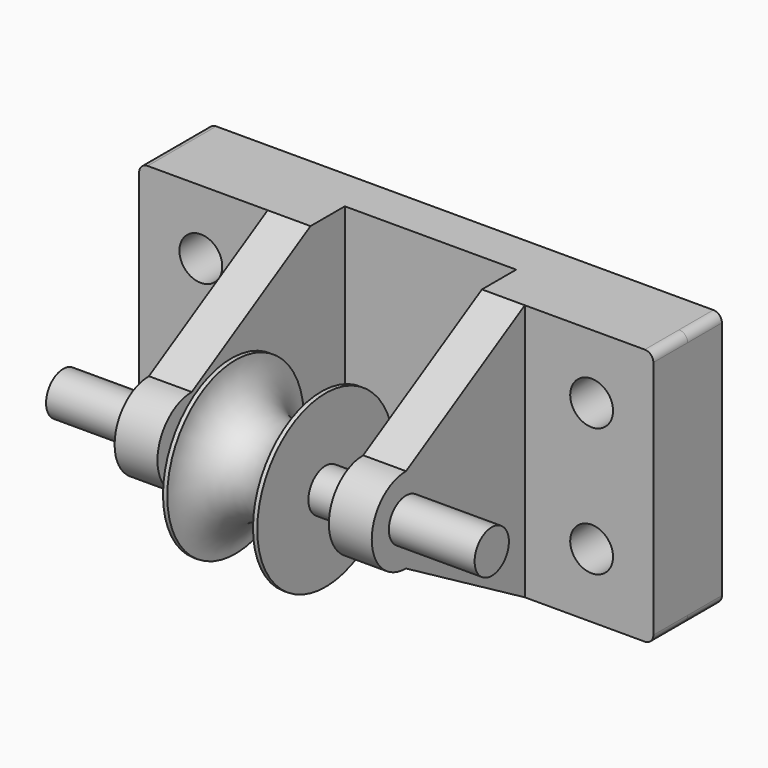
from build123d import *

# Parameters (mm, degrees)
F0_W          = 152.4
F0_H          = 76.2
F0_R          = 6.35
F1_DEPTH      = 12.7
F2_R          = 2.54
F3_R          = 6.35
F4_DEPTH      = 12.7
F5_W          = 12.7
F5_H          = 76.2
F6_DEPTH      = 12.7
F8_R          = 6.35
F9_DEPTH      = 25.4
F9_DEPTH_BACK = 101.6


with BuildPart() as f1:
    # F0 (on Front) → F1 (new body)
    with BuildSketch(Plane.XZ):
        Rectangle(F0_W, F0_H)
        with Locations((-57.903849, -19.05)):
            Circle(F0_R, mode=Mode.SUBTRACT)
        with Locations((57.903849, -19.05)):
            Circle(F0_R, mode=Mode.SUBTRACT)
        with Locations((-57.903849, 19.05)):
            Circle(F0_R, mode=Mode.SUBTRACT)
        with Locations((57.903849, 19.05)):
            Circle(F0_R, mode=Mode.SUBTRACT)
    extrude(amount=F1_DEPTH)

    # F2
    f2_edges = [f1.edges().sort_by_distance(p)[0] for p in [
        (-76.2, -6.35, 38.1),
        (76.2, -6.35, 38.1),
        (-76.2, -6.35, -38.1),
        (76.2, -6.35, -38.1),
    ]]
    fillet(f2_edges, radius=F2_R)



with BuildPart() as f4:
    # F3 (on face) → F4 (new body)
    with BuildSketch(Plane.XZ.offset(12.7)):
        with BuildLine():
            Line((-38.1, -38.1), (-38.1, 38.1))
            Line((-38.1, 38.1), (-73.66, 38.1))
            ThreePointArc((-73.66, 38.1), (-75.456051, 37.356051), (-76.2, 35.56))
            Line((-76.2, 35.56), (-76.2, -35.56))
            ThreePointArc((-76.2, -35.56), (-75.456051, -37.356051), (-73.66, -38.1))
            Line((-73.66, -38.1), (-38.1, -38.1))
        make_face()
        with Locations((-57.903849, -19.05)):
            Circle(F3_R, mode=Mode.SUBTRACT)
        with Locations((-57.903849, 19.05)):
            Circle(F3_R, mode=Mode.SUBTRACT)
    extrude(amount=F4_DEPTH)


with BuildPart() as f1_1:
    add(f1.part)

    add(f4.part)  # F6 merges F4
    # F5 (on face) → F6 (join)
    with BuildSketch(Plane.YZ.offset(-38.1)):
        with BuildLine():
            Line((-69.394091, -12.7), (-25.4, -38.1))
            Line((-25.4, -38.1), (-25.4, 38.1))
            Line((-25.4, 38.1), (-69.394091, 12.7))
            ThreePointArc((-69.394091, 12.7), (-60.413834, 8.980256), (-56.694091, 0))
            ThreePointArc((-56.694091, 0), (-60.413834, -8.980256), (-69.394091, -12.7))
        make_face()
        with Locations((-19.05, 0)):
            Rectangle(F5_W, F5_H)
        with BuildLine():
            Line((-69.394091, -6.35), (-69.394091, -12.7))
            ThreePointArc((-69.394091, -12.7), (-60.413834, -8.980256), (-56.694091, 0))
            ThreePointArc((-56.694091, 0), (-60.413834, 8.980256), (-69.394091, 12.7))
            Line((-69.394091, 12.7), (-69.394091, 6.35))
            ThreePointArc((-69.394091, 6.35), (-64.903962, 4.490128), (-63.044091, 0))
            ThreePointArc((-63.044091, 0), (-64.903962, -4.490128), (-69.394091, -6.35))
        make_face()
        with BuildLine():
            ThreePointArc((-69.394091, 12.7), (-82.094091, 0), (-69.394091, -12.7))
            Line((-69.394091, -12.7), (-69.394091, -6.35))
            ThreePointArc((-69.394091, -6.35), (-75.744091, 0), (-69.394091, 6.35))
            Line((-69.394091, 6.35), (-69.394091, 12.7))
        make_face()
    extrude(amount=F6_DEPTH)

    # F7: F1 across plane


with BuildPart() as f1_2:
    add(f1_1.part)
    add(f1_1.part.mirror(Plane.YZ))


with BuildPart() as f9:
    # F8 (on face) → F9 (new body, two sides)
    with BuildSketch(Plane.YZ.offset(38.1)) as f9_sk:
        with Locations((-69.394091, 0)):
            Circle(F8_R)
    extrude(amount=F9_DEPTH)
    extrude(f9_sk.sketch, amount=-F9_DEPTH_BACK)

    # F10 (on Top) → F11 (revolve)
    with BuildSketch(Plane.XY):
        with BuildLine():
            Line((-13.697059, -75.744091), (-13.697059, -94.678637))
            Line((-13.697059, -94.678637), (-12.427059, -94.678637))
            ThreePointArc((-12.427059, -94.678637), (0.272941, -81.978637), (12.972941, -94.678637))
            Line((12.972941, -94.678637), (14.242941, -94.678637))
            Line((14.242941, -94.678637), (14.242941, -75.744091))
            Line((14.242941, -75.744091), (-13.697059, -75.744091))
        make_face()
    revolve(axis=Axis((38.1, -69.394091, 0), (1, 0, 0)))


solid = Compound([f1_2.part, f9.part])
